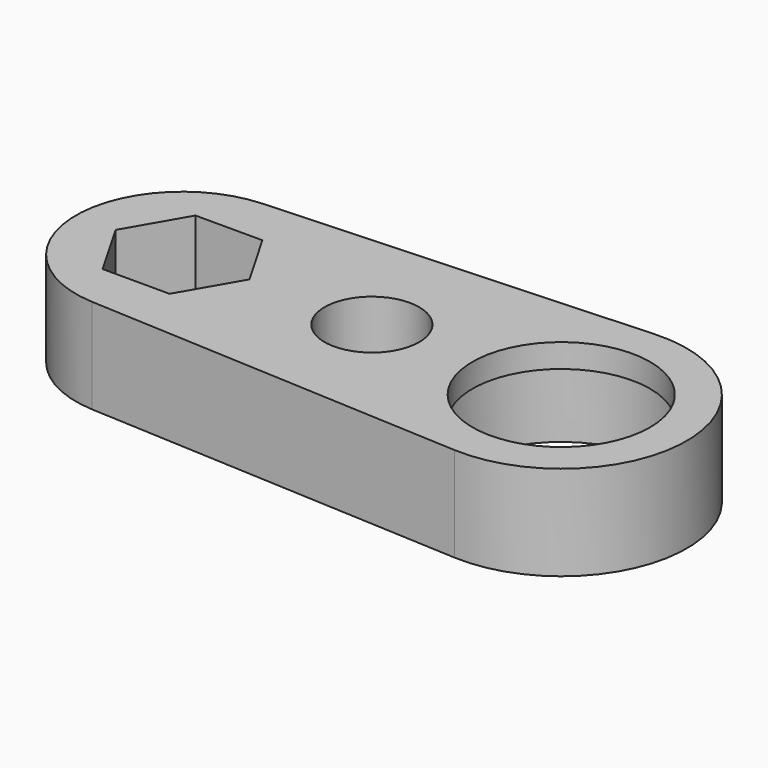
from build123d import *

# Parameters (mm, degrees)
SKETCH_R        = 3.2
SKETCH_R_2      = 7.5
SKETCH_R_3      = 4
PAD_DEPTH       = 8
SKETCH001_R     = 8.6
POCKET_DEPTH    = 6
POCKET001_DEPTH = 8.001


with BuildPart() as part:
    # Sketch → Pad (new body)
    with BuildSketch(Plane.XY):
        with BuildLine():
            ThreePointArc((-32.45, 8.988743), (-41, 0), (-32.45, -8.988743))
            Line((-32.45, -8.988743), (-0.53, -10.586742))
            ThreePointArc((-0.53, -10.586742), (10.6, 0), (-0.53, 10.586742))
            Line((-32.45, 8.988743), (-0.53, 10.586742))
        make_face()
        with Locations((-32, 0)):
            Circle(SKETCH_R, mode=Mode.SUBTRACT)
        Circle(SKETCH_R_2, mode=Mode.SUBTRACT)
        with Locations((-16, 0)):
            Circle(SKETCH_R_3, mode=Mode.SUBTRACT)
    extrude(amount=PAD_DEPTH)

    # Sketch001 → Pocket (cut)
    with BuildSketch(Plane(origin=(0, 0, 0), x_dir=(1, 0, 0), z_dir=(0, 0, -1))):
        Circle(SKETCH001_R)
    extrude(amount=-POCKET_DEPTH, mode=Mode.SUBTRACT)

    # Sketch002 → Pocket001 (cut, through all)
    with BuildSketch(Plane(origin=(0, 0, 0), x_dir=(1, 0, 0), z_dir=(0, 0, -1))):
        Polygon((-34.829016, 4.9), (-37.658033, 0), (-34.829016, -4.9), (-29.170984, -4.9), (-26.341967, 0), (-29.170984, 4.9), align=None)
    extrude(amount=-POCKET001_DEPTH, mode=Mode.SUBTRACT)


solid = part.part
